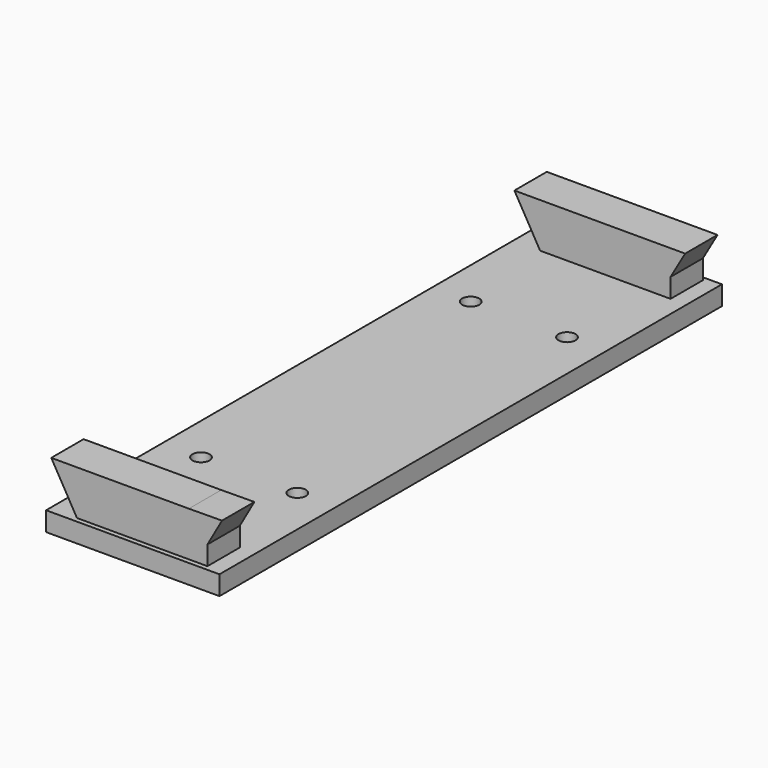
from build123d import *

# Parameters (mm, degrees)
SKETCH_W     = 45.72
SKETCH_H     = 165.608
PAD_DEPTH    = 5.08
SKETCH005_R  = 2.25
HOLE_DEPTH   = 24.9936
SKETCH006_W  = 32.385
SKETCH006_H  = 16.8402
PAD005_DEPTH = 5.334
PAD006_DEPTH = 5.334
SKETCH008_W  = 32.385
SKETCH008_H  = 16.8402
PAD007_DEPTH = 10.668
PAD008_DEPTH = 10.668


with BuildPart() as body:
    # Sketch → Pad (new body)
    with BuildSketch(Plane.XY):
        with Locations((0, -76.454)):
            Rectangle(SKETCH_W, SKETCH_H)
    extrude(amount=PAD_DEPTH)

    # Sketch005 → Hole (cut)
    with BuildSketch(Plane(origin=(0, 0, 0), x_dir=(1, 0, 0), z_dir=(0, 0, -1))):
        with Locations((-12.7, 120.904)):
            Circle(SKETCH005_R)
        with Locations((-12.7, 32.004)):
            Circle(SKETCH005_R)
        with Locations((12.7, 120.904)):
            Circle(SKETCH005_R)
        with Locations((12.7, 32.004)):
            Circle(SKETCH005_R)
    extrude(amount=-HOLE_DEPTH, mode=Mode.SUBTRACT)


with BuildPart() as pad006:
    # Sketch006 → Pad005 (new body, symmetric)
    with BuildSketch(Plane.XZ):
        with Locations((2.4765, 8.4201)):
            Rectangle(SKETCH006_W, SKETCH006_H)
    extrude(amount=PAD005_DEPTH, both=True)

    # Sketch007 → Pad006 (new body, symmetric)
    with BuildSketch(Plane.XZ):
        Polygon((-13.716, 1.6002), (-13.716, 16.8402), (-22.514818, 16.8402), align=None)
        Polygon((13.716, 1.6002), (22.514818, 16.8402), (13.716, 16.8402), align=None)
    extrude(amount=PAD006_DEPTH, both=True)


with BuildPart() as pad008:
    # Sketch008 → Pad007 (new body)
    with BuildSketch(Plane.XZ.offset(147.32)):
        with Locations((2.4765, 8.4201)):
            Rectangle(SKETCH008_W, SKETCH008_H)
    extrude(amount=PAD007_DEPTH)

    # Sketch009 → Pad008 (new body)
    with BuildSketch(Plane.XZ.offset(147.32)):
        Polygon((-13.716, 1.6002), (-13.716, 16.8402), (-22.514818, 16.8402), align=None)
        Polygon((13.838348, 1.6002), (22.514164, 16.910556), (13.715632, 16.839706), align=None)
    extrude(amount=PAD008_DEPTH)


solid = Compound([body.part, pad006.part, pad008.part])
